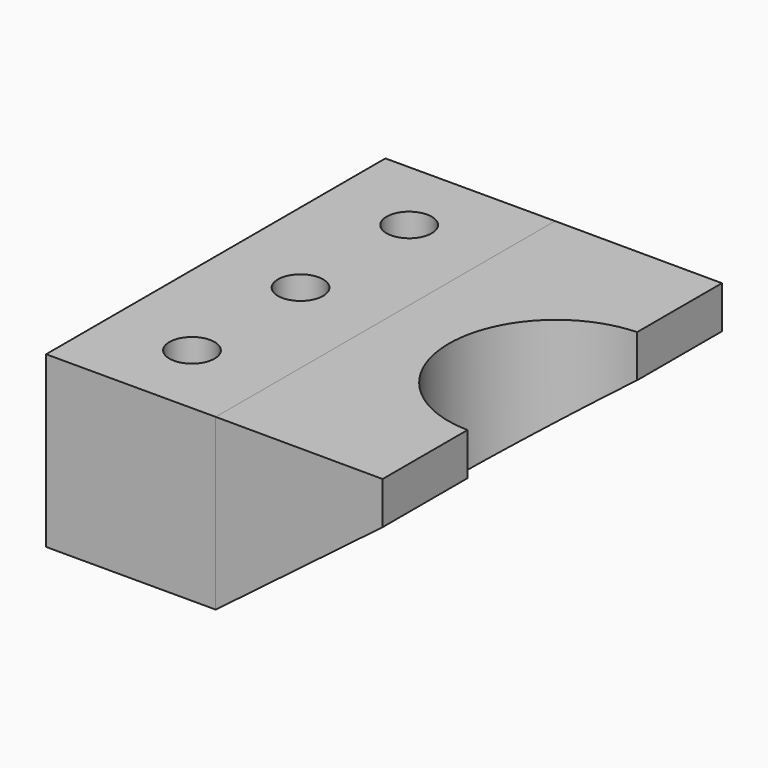
from build123d import *

# Parameters (mm, degrees)
F1_DEPTH       = 25.4
F2_D           = 6.7564
F2_CSINK_D     = 13.4874
F2_CSINK_ANGLE = 82
F4_W           = 63.5
F4_H           = 6.35
F1_FACE_W      = 63.5
F1_FACE_H      = 25.4
F7_D           = 31.75


with BuildPart() as f1:
    # F0 (on Top) → F1 (new body)
    with BuildSketch(Plane.XY):
        Polygon((0.1623489741, 63.8174524204), (-25.2376510259, 63.8174524204), (-25.2376510259, 0.3174524204), (-12.5376510259, 0.3174524204), (0.1623489741, 0.3174524204), align=None)
    extrude(amount=F1_DEPTH)

    # F2 (through all)
    with Locations(Plane(origin=(0, 0, 0), x_dir=(1, 0, 0), z_dir=(0, 0, -1))):
        with Locations((-12.5376510259, -11.7474524204), (-12.5376510259, -32.0674524204), (-12.5376510259, -52.3874524204)):
            CounterSinkHole(F2_D / 2, F2_CSINK_D / 2, counter_sink_angle=F2_CSINK_ANGLE)

    # F4 (on offset) → F5 section 0
    with BuildSketch(Plane.YZ.offset(25.4)):
        with Locations((31.75, 22.3743102956)):
            Rectangle(F4_W, F4_H)
    # F1_face (on face) → F5 section 1
    with BuildSketch(Plane(origin=(0.1623489741, 32.0674524204, 12.7), x_dir=(0, 1, 0), z_dir=(1, 0, 0))):
        Rectangle(F1_FACE_W, F1_FACE_H)
    loft()

    # F7 (through all)
    with Locations(Plane(origin=(-0.1502598385, 0, 25.3981505524), x_dir=(0.9999824999, 0, 0.0059160689), z_dir=(-0.0059160689, 0, 0.9999824999))):
        with Locations((25.9500681529, 31.75)):
            Hole(F7_D / 2)


solid = f1.part
